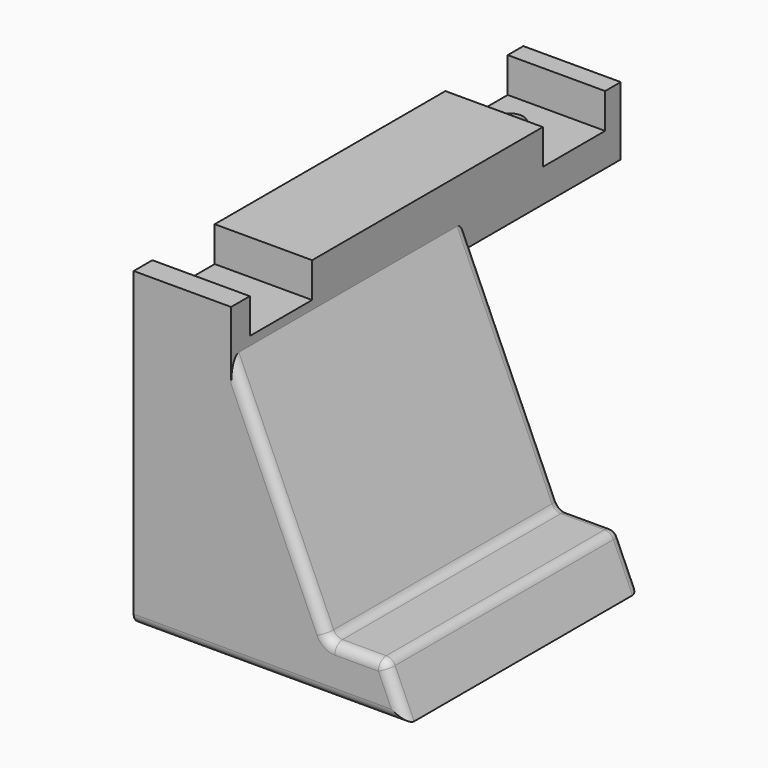
from build123d import *

# Parameters (mm, degrees)
F1_DEPTH  = 30
F2_W      = 10
F2_H      = 50
F3_DEPTH  = 7
F4_W      = 10
F4_H      = 8
F5_DEPTH  = 3.6
F8_DEPTH  = 26.5
F10_DEPTH = 8
F11_R     = 1.3
F12_DEPTH = 6
F13_R     = 1
F14_R     = 1.4
F16_DEPTH = 5
F15_R     = 1.4
F17_DEPTH = 5
F18_R     = 3
F19_R     = 4
F20_SIZE  = 1


with BuildPart() as f1:
    # F0 (on Front) → F1 (new body)
    with BuildSketch(Plane.XZ):
        Polygon((0, 32), (0, 0), (28, 0), (25.777778, 5), (20, 5), (8, 32), align=None)
    extrude(amount=F1_DEPTH)

    # F2 (on face) → F3 (join)
    with BuildSketch(Plane.XY.offset(32)):
        with Locations((5, -5)):
            Rectangle(F2_W, F2_H)
    extrude(amount=-F3_DEPTH)

    # F4 (on face) → F5 (cut)
    with BuildSketch(Plane.XY.offset(32)):
        with Locations((5, 14)):
            Rectangle(F4_W, F4_H)
        with Locations((5, -23.6)):
            Rectangle(F4_W, F4_H)
    extrude(amount=-F5_DEPTH, mode=Mode.SUBTRACT)

    # F7 (on offset) → F8 (cut)
    with BuildSketch(Plane.XZ.offset(28.25)):
        Polygon((18.891857, 3.8), (8.580746, 27), (7.580746, 27), (7.580746, 1.5), (22.944444, 1.5), (24.5, -2), (27.5, -2), (24.922222, 3.8), align=None)
    extrude(amount=-F8_DEPTH, mode=Mode.SUBTRACT)

    # F9 (on face) → F10 (cut)
    with BuildSketch(Plane(origin=(0, 0, 0), x_dir=(0, -1, 0), z_dir=(-1, 0, 0))):
        with BuildLine():
            Line((22.826238, 26), (7.173762, 26))
            ThreePointArc((7.173762, 26), (15, 1.5), (22.826238, 26))
        make_face()
    extrude(amount=-F10_DEPTH, mode=Mode.SUBTRACT)

    # F11 (on face) → F12 (cut)
    with BuildSketch(Plane(origin=(0, 0, 0), x_dir=(0, -1, 0), z_dir=(-1, 0, 0))):
        with Locations((3, 27)):
            Circle(F11_R)
        with Locations((3, 3)):
            Circle(F11_R)
        with Locations((27, 3)):
            Circle(F11_R)
    extrude(amount=-F12_DEPTH, mode=Mode.SUBTRACT)

    # F13
    f13_edges = [f1.edges().sort_by_distance(p)[0] for p in [
        (15, -30, 16.25),
        (15, 0, 16.25),
        (26.888889, -30, 2.5),
        (22.888889, -30, 5),
        (26.888889, 0, 2.5),
        (22.888889, 0, 5),
        (25.777778, -15, 5),
        (20, -15, 5),
        (14, -30, 0),
        (14, 0, 0),
    ]]
    fillet(f13_edges, radius=F13_R)

    # F14 (on face) → F16 (cut)
    with BuildSketch(Plane.XY.offset(28.4)):
        with Locations((3, 14.5)):
            Circle(F14_R)
    extrude(amount=-F16_DEPTH, mode=Mode.SUBTRACT)

    # F15 (on face) → F17 (cut)
    with BuildSketch(Plane.XY.offset(28.4)):
        with Locations((3, -24)):
            Circle(F15_R)
    extrude(amount=-F17_DEPTH, mode=Mode.SUBTRACT)

    # F18
    f18_edges = [f1.edges().sort_by_distance(p)[0] for p in [
        (18.891857, -15, 3.8),
    ]]
    fillet(f18_edges, radius=F18_R)

    # F19
    f19_edges = [f1.edges().sort_by_distance(p)[0] for p in [
        (24.922222, -15, 3.8),
    ]]
    fillet(f19_edges, radius=F19_R)

    # F20
    f20_edges = [f1.edges().sort_by_distance(p)[0] for p in [
        (22.944444, -15, 1.5),
    ]]
    chamfer(f20_edges, length=F20_SIZE)


solid = f1.part
